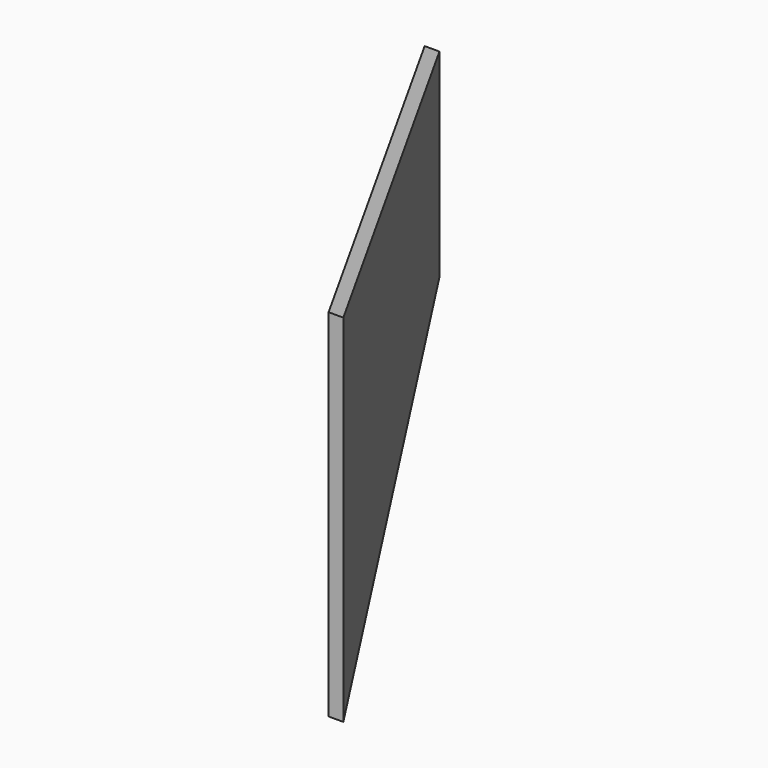
from build123d import *

# Parameters (mm, degrees)
F1_DEPTH = 127
F3_DEPTH = 50.8


with BuildPart() as f1:
    # F0 (on Right) → F1 (new body, symmetric)
    with BuildSketch(Plane.YZ):
        Polygon((155.7787731835, 25.0944288613), (25.4, 44.9478426982), (25.4, -44.9478426982), (155.7787731835, -25.0944288613), align=None)
    extrude(amount=F1_DEPTH, both=True)

    # F2 (on Top) → F3 (intersect, symmetric)
    with BuildSketch(Plane.XY):
        Polygon((-178.8370349486, 291.338), (-182.5625, 291.338), (-3.7254650514, 0), (0, 0), align=None)
    extrude(amount=F3_DEPTH, both=True, mode=Mode.INTERSECT)


solid = f1.part
